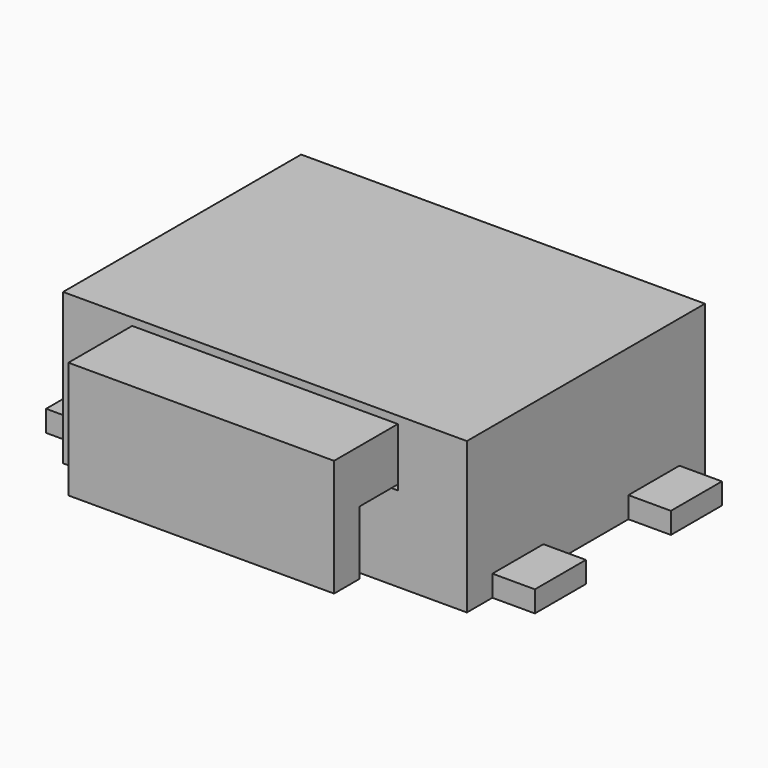
from build123d import *

# Parameters (mm, degrees)
SKETCH004_W       = 2.5
SKETCH004_H       = 1.1
PAD001_DEPTH      = 0.75
PAD001_DEPTH_BACK = 1
SKETCH005_W       = 0.7
SKETCH005_H       = 1.6
POCKET001_DEPTH   = 2.501
SKETCH006_W       = 0.7
SKETCH006_H       = 0.6
SKETCH006_W_2     = 1.4
SKETCH006_H_2     = 0.4
PAD002_DEPTH      = 0.2
SKETCH002_W       = 3.8
SKETCH002_H       = 2.8
PAD_DEPTH         = 1.42
SKETCH003_W       = 2.5
SKETCH003_H       = 0.55
POCKET_DEPTH      = 2


with BuildPart() as buttonprofile_pocket:
    # Sketch004 → Pad001 (new body, two sides)
    with BuildSketch(Plane.XZ.offset(1.4)) as pad001_sk:
        with Locations((0, 0.8)):
            Rectangle(SKETCH004_W, SKETCH004_H)
    extrude(amount=PAD001_DEPTH)
    extrude(pad001_sk.sketch, amount=-PAD001_DEPTH_BACK)

    # Sketch005 → Pocket001 (cut, through all)
    with BuildSketch(Plane(origin=(1.25, -1.4, 0), x_dir=(0, 0, 1), z_dir=(1, 0, 0))):
        with Locations((0.5, -0.35)):
            Rectangle(SKETCH005_W, SKETCH005_H)
    extrude(amount=-POCKET001_DEPTH, mode=Mode.SUBTRACT)


with BuildPart() as pins_pad:
    # Sketch006 → Pad002 (new body)
    with BuildSketch(Plane.XY):
        with Locations((-1.95, -0.8)):
            Rectangle(SKETCH006_W, SKETCH006_H)
        with Locations((1.95, -0.8)):
            Rectangle(SKETCH006_W, SKETCH006_H)
        with Locations((1.95, 0.8)):
            Rectangle(SKETCH006_W, SKETCH006_H)
        with Locations((-1.95, 0.8)):
            Rectangle(SKETCH006_W, SKETCH006_H)
        with Locations((0, 1.4)):
            Rectangle(SKETCH006_W_2, SKETCH006_H_2)
    extrude(amount=PAD002_DEPTH)


with BuildPart() as fusion:
    # Sketch002 → Pad (new body)
    with BuildSketch(Plane.XY):
        Rectangle(SKETCH002_W, SKETCH002_H)
    extrude(amount=PAD_DEPTH)

    # Sketch003 → Pocket (cut)
    with BuildSketch(Plane.XZ.offset(1.4)):
        with Locations((0, 1.075)):
            Rectangle(SKETCH003_W, SKETCH003_H)
    extrude(amount=-POCKET_DEPTH, mode=Mode.SUBTRACT)

    # Fusion: union ButtonProfile_Pocket, Pins_Pad
    add(buttonprofile_pocket.part)
    add(pins_pad.part)


solid = fusion.part
